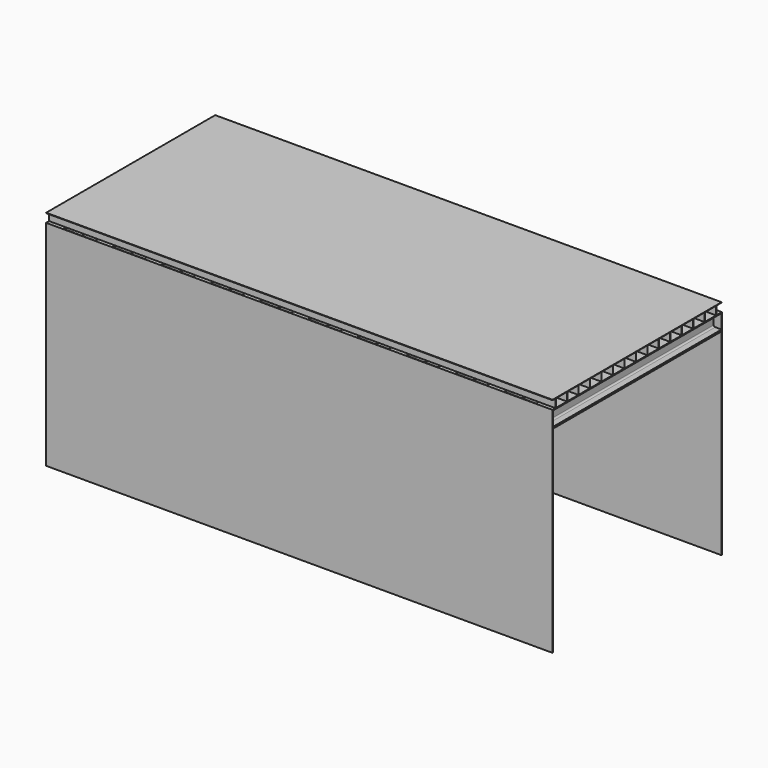
from build123d import *

# Parameters (mm, degrees)
F1_DEPTH = 2500
F2_W     = 6000
F2_H     = 2534.6931838989
F3_DEPTH = 5
F4_W     = 6000
F4_H     = 2534.6931838989
F5_DEPTH = 5
F6_W     = 5
F6_H     = 100
F7_DEPTH = 6000


with BuildPart() as f1:
    # F0 (on Front) → F1 (new body)
    with BuildSketch(Plane.XZ):
        with BuildLine():
            Line((-410.30711247, 10), (-410.30711247, 0))
            Line((-410.30711247, 0), (-210.30711247, 0))
            Line((-210.30711247, 0), (-210.30711247, 10))
            Line((-210.30711247, 10), (-285.80711247, 10))
            ThreePointArc((-285.80711247, 10), (-298.5350345314, 15.2720779386), (-303.80711247, 28))
            Line((-303.80711247, 28), (-303.80711247, 162))
            ThreePointArc((-303.80711247, 162), (-298.5350345314, 174.7279220614), (-285.80711247, 180))
            Line((-285.80711247, 180), (-210.30711247, 180))
            Line((-210.30711247, 180), (-210.30711247, 190))
            Line((-210.30711247, 190), (-410.30711247, 190))
            Line((-410.30711247, 190), (-410.30711247, 180))
            Line((-410.30711247, 180), (-328.30711247, 180))
            ThreePointArc((-328.30711247, 180), (-315.5791904087, 174.7279220614), (-310.30711247, 162))
            Line((-310.30711247, 162), (-310.30711247, 28))
            ThreePointArc((-310.30711247, 28), (-315.5791904087, 15.2720779386), (-328.30711247, 10))
            Line((-328.30711247, 10), (-410.30711247, 10))
        make_face()
        Polygon((-210.30711247, 0), (-410.30711247, 0), (-410.30711247, -10), (5589.69288753, -10), (5589.69288753, 0), (5389.69288753, 0), (5009.69288753, 0), (4809.69288753, 0), (4429.69288753, 0), (4229.69288753, 0), (3849.69288753, 0), (3649.69288753, 0), (3269.69288753, 0), (3069.69288753, 0), (2689.69288753, 0), (2489.69288753, 0), (2109.69288753, 0), (1909.69288753, 0), (1529.69288753, 0), (1329.69288753, 0), (949.69288753, 0), (749.69288753, 0), (369.69288753, 0), (169.69288753, 0), align=None)
        with BuildLine():
            Line((169.69288753, 10), (169.69288753, 0))
            Line((169.69288753, 0), (369.69288753, 0))
            Line((369.69288753, 0), (369.69288753, 10))
            Line((369.69288753, 10), (294.19288753, 10))
            ThreePointArc((294.19288753, 10), (281.4649654686, 15.2720779386), (276.19288753, 28))
            Line((276.19288753, 28), (276.19288753, 162))
            ThreePointArc((276.19288753, 162), (281.4649654686, 174.7279220614), (294.19288753, 180))
            Line((294.19288753, 180), (369.69288753, 180))
            Line((369.69288753, 180), (369.69288753, 190))
            Line((369.69288753, 190), (169.69288753, 190))
            Line((169.69288753, 190), (169.69288753, 180))
            Line((169.69288753, 180), (251.69288753, 180))
            ThreePointArc((251.69288753, 180), (264.4208095913, 174.7279220614), (269.69288753, 162))
            Line((269.69288753, 162), (269.69288753, 28))
            ThreePointArc((269.69288753, 28), (264.4208095913, 15.2720779386), (251.69288753, 10))
            Line((251.69288753, 10), (169.69288753, 10))
        make_face()
        with BuildLine():
            Line((5389.69288753, 0), (5589.69288753, 0))
            Line((5589.69288753, 0), (5589.69288753, 10))
            Line((5589.69288753, 10), (5514.19288753, 10))
            ThreePointArc((5514.19288753, 10), (5501.4649654686, 15.2720779386), (5496.19288753, 28))
            Line((5496.19288753, 28), (5496.19288753, 162))
            ThreePointArc((5496.19288753, 162), (5501.4649654686, 174.7279220614), (5514.19288753, 180))
            Line((5514.19288753, 180), (5589.69288753, 180))
            Line((5589.69288753, 180), (5589.69288753, 190))
            Line((5589.69288753, 190), (5389.69288753, 190))
            Line((5389.69288753, 190), (5389.69288753, 180))
            Line((5389.69288753, 180), (5471.69288753, 180))
            ThreePointArc((5471.69288753, 180), (5484.4208095913, 174.7279220614), (5489.69288753, 162))
            Line((5489.69288753, 162), (5489.69288753, 28))
            ThreePointArc((5489.69288753, 28), (5484.4208095913, 15.2720779386), (5471.69288753, 10))
            Line((5471.69288753, 10), (5389.69288753, 10))
            Line((5389.69288753, 10), (5389.69288753, 0))
        make_face()
        with BuildLine():
            Line((749.69288753, 10), (749.69288753, 0))
            Line((749.69288753, 0), (949.69288753, 0))
            Line((949.69288753, 0), (949.69288753, 10))
            Line((949.69288753, 10), (874.19288753, 10))
            ThreePointArc((874.19288753, 10), (861.4649654686, 15.2720779386), (856.19288753, 28))
            Line((856.19288753, 28), (856.19288753, 162))
            ThreePointArc((856.19288753, 162), (861.4649654686, 174.7279220614), (874.19288753, 180))
            Line((874.19288753, 180), (949.69288753, 180))
            Line((949.69288753, 180), (949.69288753, 190))
            Line((949.69288753, 190), (749.69288753, 190))
            Line((749.69288753, 190), (749.69288753, 180))
            Line((749.69288753, 180), (831.69288753, 180))
            ThreePointArc((831.69288753, 180), (844.4208095913, 174.7279220614), (849.69288753, 162))
            Line((849.69288753, 162), (849.69288753, 28))
            ThreePointArc((849.69288753, 28), (844.4208095913, 15.2720779386), (831.69288753, 10))
            Line((831.69288753, 10), (749.69288753, 10))
        make_face()
        with BuildLine():
            Line((4809.69288753, 0), (5009.69288753, 0))
            Line((5009.69288753, 0), (5009.69288753, 10))
            Line((5009.69288753, 10), (4934.19288753, 10))
            ThreePointArc((4934.19288753, 10), (4921.4649654686, 15.2720779386), (4916.19288753, 28))
            Line((4916.19288753, 28), (4916.19288753, 162))
            ThreePointArc((4916.19288753, 162), (4921.4649654686, 174.7279220614), (4934.19288753, 180))
            Line((4934.19288753, 180), (5009.69288753, 180))
            Line((5009.69288753, 180), (5009.69288753, 190))
            Line((5009.69288753, 190), (4809.69288753, 190))
            Line((4809.69288753, 190), (4809.69288753, 180))
            Line((4809.69288753, 180), (4891.69288753, 180))
            ThreePointArc((4891.69288753, 180), (4904.4208095913, 174.7279220614), (4909.69288753, 162))
            Line((4909.69288753, 162), (4909.69288753, 28))
            ThreePointArc((4909.69288753, 28), (4904.4208095913, 15.2720779386), (4891.69288753, 10))
            Line((4891.69288753, 10), (4809.69288753, 10))
            Line((4809.69288753, 10), (4809.69288753, 0))
        make_face()
        with BuildLine():
            Line((1329.69288753, 10), (1329.69288753, 0))
            Line((1329.69288753, 0), (1529.69288753, 0))
            Line((1529.69288753, 0), (1529.69288753, 10))
            Line((1529.69288753, 10), (1454.19288753, 10))
            ThreePointArc((1454.19288753, 10), (1441.4649654686, 15.2720779386), (1436.19288753, 28))
            Line((1436.19288753, 28), (1436.19288753, 162))
            ThreePointArc((1436.19288753, 162), (1441.4649654686, 174.7279220614), (1454.19288753, 180))
            Line((1454.19288753, 180), (1529.69288753, 180))
            Line((1529.69288753, 180), (1529.69288753, 190))
            Line((1529.69288753, 190), (1329.69288753, 190))
            Line((1329.69288753, 190), (1329.69288753, 180))
            Line((1329.69288753, 180), (1411.69288753, 180))
            ThreePointArc((1411.69288753, 180), (1424.4208095913, 174.7279220614), (1429.69288753, 162))
            Line((1429.69288753, 162), (1429.69288753, 28))
            ThreePointArc((1429.69288753, 28), (1424.4208095913, 15.2720779386), (1411.69288753, 10))
            Line((1411.69288753, 10), (1329.69288753, 10))
        make_face()
        with BuildLine():
            Line((4229.69288753, 0), (4429.69288753, 0))
            Line((4429.69288753, 0), (4429.69288753, 10))
            Line((4429.69288753, 10), (4354.19288753, 10))
            ThreePointArc((4354.19288753, 10), (4341.4649654686, 15.2720779386), (4336.19288753, 28))
            Line((4336.19288753, 28), (4336.19288753, 162))
            ThreePointArc((4336.19288753, 162), (4341.4649654686, 174.7279220614), (4354.19288753, 180))
            Line((4354.19288753, 180), (4429.69288753, 180))
            Line((4429.69288753, 180), (4429.69288753, 190))
            Line((4429.69288753, 190), (4229.69288753, 190))
            Line((4229.69288753, 190), (4229.69288753, 180))
            Line((4229.69288753, 180), (4311.69288753, 180))
            ThreePointArc((4311.69288753, 180), (4324.4208095913, 174.7279220614), (4329.69288753, 162))
            Line((4329.69288753, 162), (4329.69288753, 28))
            ThreePointArc((4329.69288753, 28), (4324.4208095913, 15.2720779386), (4311.69288753, 10))
            Line((4311.69288753, 10), (4229.69288753, 10))
            Line((4229.69288753, 10), (4229.69288753, 0))
        make_face()
        with BuildLine():
            Line((1909.69288753, 10), (1909.69288753, 0))
            Line((1909.69288753, 0), (2109.69288753, 0))
            Line((2109.69288753, 0), (2109.69288753, 10))
            Line((2109.69288753, 10), (2034.19288753, 10))
            ThreePointArc((2034.19288753, 10), (2021.4649654686, 15.2720779386), (2016.19288753, 28))
            Line((2016.19288753, 28), (2016.19288753, 162))
            ThreePointArc((2016.19288753, 162), (2021.4649654686, 174.7279220614), (2034.19288753, 180))
            Line((2034.19288753, 180), (2109.69288753, 180))
            Line((2109.69288753, 180), (2109.69288753, 190))
            Line((2109.69288753, 190), (1909.69288753, 190))
            Line((1909.69288753, 190), (1909.69288753, 180))
            Line((1909.69288753, 180), (1991.69288753, 180))
            ThreePointArc((1991.69288753, 180), (2004.4208095913, 174.7279220614), (2009.69288753, 162))
            Line((2009.69288753, 162), (2009.69288753, 28))
            ThreePointArc((2009.69288753, 28), (2004.4208095913, 15.2720779386), (1991.69288753, 10))
            Line((1991.69288753, 10), (1909.69288753, 10))
        make_face()
        with BuildLine():
            Line((3649.69288753, 0), (3849.69288753, 0))
            Line((3849.69288753, 0), (3849.69288753, 10))
            Line((3849.69288753, 10), (3774.19288753, 10))
            ThreePointArc((3774.19288753, 10), (3761.4649654686, 15.2720779386), (3756.19288753, 28))
            Line((3756.19288753, 28), (3756.19288753, 162))
            ThreePointArc((3756.19288753, 162), (3761.4649654686, 174.7279220614), (3774.19288753, 180))
            Line((3774.19288753, 180), (3849.69288753, 180))
            Line((3849.69288753, 180), (3849.69288753, 190))
            Line((3849.69288753, 190), (3649.69288753, 190))
            Line((3649.69288753, 190), (3649.69288753, 180))
            Line((3649.69288753, 180), (3731.69288753, 180))
            ThreePointArc((3731.69288753, 180), (3744.4208095913, 174.7279220614), (3749.69288753, 162))
            Line((3749.69288753, 162), (3749.69288753, 28))
            ThreePointArc((3749.69288753, 28), (3744.4208095913, 15.2720779386), (3731.69288753, 10))
            Line((3731.69288753, 10), (3649.69288753, 10))
            Line((3649.69288753, 10), (3649.69288753, 0))
        make_face()
        with BuildLine():
            Line((2489.69288753, 10), (2489.69288753, 0))
            Line((2489.69288753, 0), (2689.69288753, 0))
            Line((2689.69288753, 0), (2689.69288753, 10))
            Line((2689.69288753, 10), (2614.19288753, 10))
            ThreePointArc((2614.19288753, 10), (2601.4649654686, 15.2720779386), (2596.19288753, 28))
            Line((2596.19288753, 28), (2596.19288753, 162))
            ThreePointArc((2596.19288753, 162), (2601.4649654686, 174.7279220614), (2614.19288753, 180))
            Line((2614.19288753, 180), (2689.69288753, 180))
            Line((2689.69288753, 180), (2689.69288753, 190))
            Line((2689.69288753, 190), (2489.69288753, 190))
            Line((2489.69288753, 190), (2489.69288753, 180))
            Line((2489.69288753, 180), (2571.69288753, 180))
            ThreePointArc((2571.69288753, 180), (2584.4208095913, 174.7279220614), (2589.69288753, 162))
            Line((2589.69288753, 162), (2589.69288753, 28))
            ThreePointArc((2589.69288753, 28), (2584.4208095913, 15.2720779386), (2571.69288753, 10))
            Line((2571.69288753, 10), (2489.69288753, 10))
        make_face()
        with BuildLine():
            Line((3069.69288753, 0), (3269.69288753, 0))
            Line((3269.69288753, 0), (3269.69288753, 10))
            Line((3269.69288753, 10), (3194.19288753, 10))
            ThreePointArc((3194.19288753, 10), (3181.4649654686, 15.2720779386), (3176.19288753, 28))
            Line((3176.19288753, 28), (3176.19288753, 162))
            ThreePointArc((3176.19288753, 162), (3181.4649654686, 174.7279220614), (3194.19288753, 180))
            Line((3194.19288753, 180), (3269.69288753, 180))
            Line((3269.69288753, 180), (3269.69288753, 190))
            Line((3269.69288753, 190), (3069.69288753, 190))
            Line((3069.69288753, 190), (3069.69288753, 180))
            Line((3069.69288753, 180), (3151.69288753, 180))
            ThreePointArc((3151.69288753, 180), (3164.4208095913, 174.7279220614), (3169.69288753, 162))
            Line((3169.69288753, 162), (3169.69288753, 28))
            ThreePointArc((3169.69288753, 28), (3164.4208095913, 15.2720779386), (3151.69288753, 10))
            Line((3151.69288753, 10), (3069.69288753, 10))
            Line((3069.69288753, 10), (3069.69288753, 0))
        make_face()
    extrude(amount=F1_DEPTH)

    # F2 (on face) → F3 (join)
    with BuildSketch(Plane(origin=(0, 0, 0), x_dir=(-1, 0, 0), z_dir=(0, 1, 0))):
        with Locations((-2589.69288753, -1077.3465919495)):
            Rectangle(F2_W, F2_H)
    extrude(amount=F3_DEPTH)

    # F4 (on face) → F5 (join)
    with BuildSketch(Plane.XZ.offset(2500)):
        with Locations((2589.69288753, -1077.3465919495)):
            Rectangle(F4_W, F4_H)
    extrude(amount=F5_DEPTH)

    # F6 (on face) → F7 (join)
    with BuildSketch(Plane.YZ.offset(5589.69288753)):
        with Locations((-2458.1742858887, 240)):
            Rectangle(F6_W, F6_H)
        Polygon((-2503.8347244263, 290), (-2460.6742858887, 290), (-2455.6742858887, 290), (-2290.6742858887, 290), (-2285.6742858887, 290), (-2120.6742858887, 290), (-2115.6742858887, 290), (-1950.6742858887, 290), (-1945.6742858887, 290), (-1780.6742858887, 290), (-1775.6742858887, 290), (-1610.6742858887, 290), (-1605.6742858887, 290), (-1440.6742858887, 290), (-1435.6742858887, 290), (-1270.6742858887, 290), (-1265.6742858887, 290), (-1100.6742858887, 290), (-1095.6742858887, 290), (-930.6742858887, 290), (-925.6742858887, 290), (-760.6742858887, 290), (-755.6742858887, 290), (-590.6742858887, 290), (-585.6742858887, 290), (-420.6742858887, 290), (-415.6742858887, 290), (-250.6742858887, 290), (-245.6742858887, 290), (-80.6742858887, 290), (-75.6742858887, 290), (0, 290), (0, 295), (-2503.8347244263, 295), align=None)
        with Locations((-2288.1742858887, 240)):
            Rectangle(F6_W, F6_H)
        with Locations((-2118.1742858887, 240)):
            Rectangle(F6_W, F6_H)
        with Locations((-78.1742858887, 240)):
            Rectangle(F6_W, F6_H)
        with Locations((-1948.1742858887, 240)):
            Rectangle(F6_W, F6_H)
        with Locations((-248.1742858887, 240)):
            Rectangle(F6_W, F6_H)
        with Locations((-1778.1742858887, 240)):
            Rectangle(F6_W, F6_H)
        with Locations((-418.1742858887, 240)):
            Rectangle(F6_W, F6_H)
        with Locations((-1608.1742858887, 240)):
            Rectangle(F6_W, F6_H)
        with Locations((-588.1742858887, 240)):
            Rectangle(F6_W, F6_H)
        with Locations((-1438.1742858887, 240)):
            Rectangle(F6_W, F6_H)
        with Locations((-758.1742858887, 240)):
            Rectangle(F6_W, F6_H)
        with Locations((-1268.1742858887, 240)):
            Rectangle(F6_W, F6_H)
        with Locations((-928.1742858887, 240)):
            Rectangle(F6_W, F6_H)
        with Locations((-1098.1742858887, 240)):
            Rectangle(F6_W, F6_H)
    extrude(amount=-F7_DEPTH)


solid = f1.part
